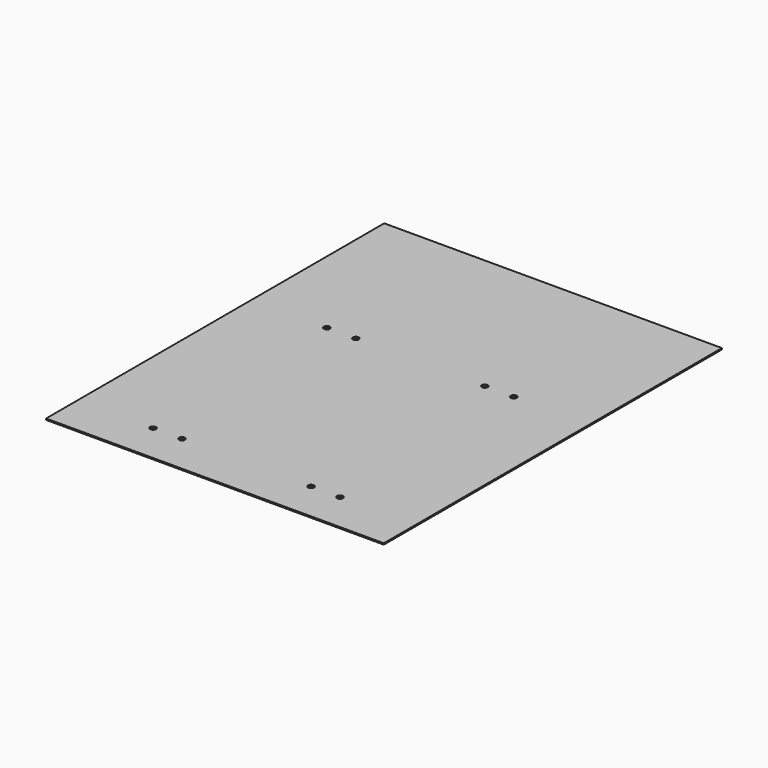
from build123d import *

# Parameters (mm, degrees)
F0_W     = 256.5
F0_H     = 321
F1_DEPTH = 1
F2_R     = 2.25
F3_DEPTH = 1.001


with BuildPart() as f1:
    # F0 (on Top) → F1 (new body)
    with BuildSketch(Plane.XY):
        Rectangle(F0_W, F0_H)
    extrude(amount=F1_DEPTH)

    # F2 (on face) → F3 (cut, through all)
    with BuildSketch(Plane.XY):
        with Locations((-71, 34.5)):
            Circle(F2_R)
        with Locations((-49, 34.5)):
            Circle(F2_R)
        with Locations((-71, -130.5)):
            Circle(F2_R)
        with Locations((-49, -130.5)):
            Circle(F2_R)
        with Locations((71, 34.5)):
            Circle(F2_R)
        with Locations((49, 34.5)):
            Circle(F2_R)
        with Locations((49, -130.5)):
            Circle(F2_R)
        with Locations((71, -130.5)):
            Circle(F2_R)
    extrude(amount=F3_DEPTH, mode=Mode.SUBTRACT)


solid = f1.part
